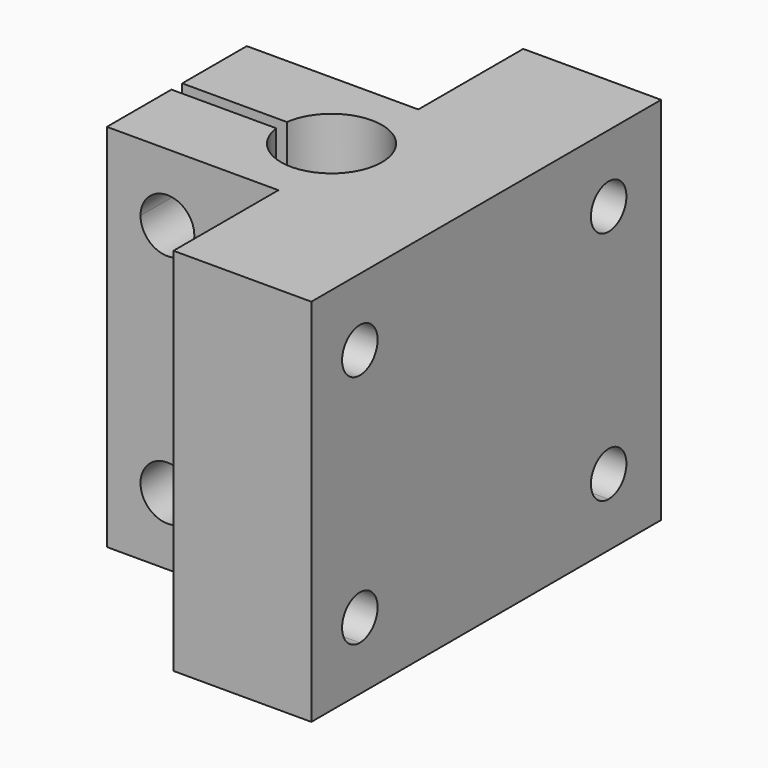
from build123d import *

# Parameters (mm, degrees)
F1_DEPTH = 55
F2_R     = 4
F3_DEPTH = 29.3
F5_DEPTH = 33.2
F7_DEPTH = 34.5
F9_DEPTH = 37.2


with BuildPart() as f1:
    # F0 (on Top) → F1 (new body)
    with BuildSketch(Plane.XY):
        with BuildLine():
            Line((58.593456, -9.011728), (58.593456, 55.988272))
            Line((58.593456, 55.988272), (38.093456, 55.988272))
            Line((38.093456, 55.988272), (38.093456, 36.488272))
            Line((38.093456, 36.488272), (12.593456, 36.488272))
            Line((12.593456, 36.488272), (12.593456, 24.488272))
            Line((12.593456, 24.488272), (28.160421, 24.488272))
            ThreePointArc((28.160421, 24.488272), (43.093456, 23.488272), (28.160421, 22.488272))
            Line((28.160421, 22.488272), (12.593456, 22.488272))
            Line((12.593456, 22.488272), (12.593456, 10.488272))
            Line((12.593456, 10.488272), (38.093456, 10.488272))
            Line((38.093456, 10.488272), (38.093456, -9.011728))
            Line((38.093456, -9.011728), (58.593456, -9.011728))
        make_face()
    extrude(amount=F1_DEPTH)

    # F2 (on face) → F3 (cut)
    with BuildSketch(Plane(origin=(0, 36.488272, 0), x_dir=(-1, 0, 0), z_dir=(0, 1, 0))):
        with Locations((-21.593456, 10)):
            Circle(F2_R)
        with BuildLine():
            ThreePointArc((-17.593456, 45), (-18.765028, 47.828427), (-21.593456, 49))
            ThreePointArc((-21.593456, 49), (-24.421883, 42.171573), (-17.593456, 45))
        make_face()
    extrude(amount=-F3_DEPTH, mode=Mode.SUBTRACT)

    # F4 (on face) → F5 (cut)
    with BuildSketch(Plane(origin=(38.093456, 0, 0), x_dir=(0, -1, 0), z_dir=(-1, 0, 0))):
        with BuildLine():
            ThreePointArc((3.3, 45), (2.333452, 47.333452), (0, 48.3))
            ThreePointArc((0, 48.3), (-2.333452, 42.666548), (3.3, 45))
        make_face()
        with BuildLine():
            ThreePointArc((3.3, 10), (-2.333452, 12.333452), (0, 6.7))
            ThreePointArc((0, 6.7), (2.333452, 7.666548), (3.3, 10))
        make_face()
    extrude(amount=-F5_DEPTH, mode=Mode.SUBTRACT)

    # F6 (on face) → F7 (cut)
    with BuildSketch(Plane(origin=(38.093456, 0, 0), x_dir=(0, -1, 0), z_dir=(-1, 0, 0))):
        with BuildLine():
            ThreePointArc((-42.938272, 45), (-43.90482, 47.333452), (-46.238272, 48.3))
            ThreePointArc((-46.238272, 48.3), (-48.571725, 42.666548), (-42.938272, 45))
        make_face()
    extrude(amount=-F7_DEPTH, mode=Mode.SUBTRACT)

    # F8 (on face) → F9 (cut)
    with BuildSketch(Plane(origin=(38.093456, 0, 0), x_dir=(0, -1, 0), z_dir=(-1, 0, 0))):
        with BuildLine():
            ThreePointArc((-42.938272, 10), (-48.571725, 12.333452), (-46.238272, 6.7))
            ThreePointArc((-46.238272, 6.7), (-43.90482, 7.666548), (-42.938272, 10))
        make_face()
    extrude(amount=-F9_DEPTH, mode=Mode.SUBTRACT)


solid = f1.part
